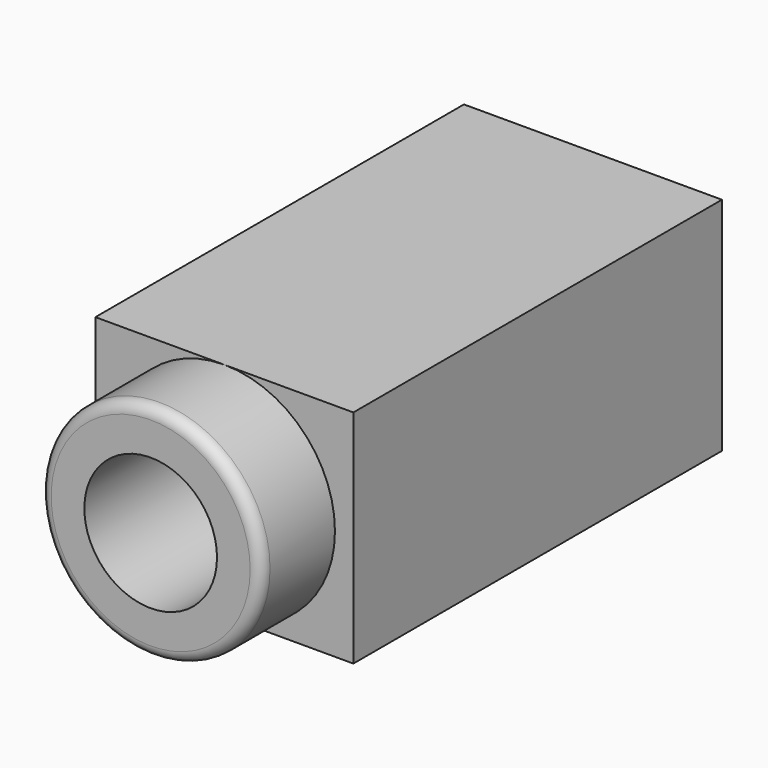
from build123d import *

# Parameters (mm, degrees)
CYLINDER002_R     = 1.8
CYLINDER002_DEPTH = 12
CYLINDER001_R     = 3
CYLINDER001_DEPTH = 2.5
BOX054_W          = 7
BOX054_H          = 12.5
BOX054_DEPTH      = 6
FILLET017_R       = 0.3


with BuildPart() as cylinder002:
    # Cylinder002 → Cylinder002 (new body)
    with BuildSketch(Plane(origin=(0, 9.5, 3), x_dir=(1, 0, 0), z_dir=(0, -1, 0))):
        Circle(CYLINDER002_R)
    extrude(amount=CYLINDER002_DEPTH)


with BuildPart() as cylinder001:
    # Cylinder001 → Cylinder001 (new body)
    with BuildSketch(Plane(origin=(0, 0, 3), x_dir=(1, 0, 0), z_dir=(0, -1, 0))):
        Circle(CYLINDER001_R)
    extrude(amount=CYLINDER001_DEPTH)


with BuildPart() as phone_socket_audio_video:
    # Box054 → Box054 (new body)
    with BuildSketch(Plane(origin=(-3.5, 0, 0), x_dir=(1, 0, 0), z_dir=(0, 0, 1))):
        with Locations((3.5, 6.25)):
            Rectangle(BOX054_W, BOX054_H)
    extrude(amount=BOX054_DEPTH)

    # Fusion043: union Cylinder001
    add(cylinder001.part)

    # Cut010: cut Cylinder002
    add(cylinder002.part, mode=Mode.SUBTRACT)

    # Fillet017
    fillet017_edges = [phone_socket_audio_video.edges().sort_by_distance(p)[0] for p in [
        (-3, -2.5, 3),
    ]]
    fillet(fillet017_edges, radius=FILLET017_R)


with BuildPart() as phone_socket_audio_video_1:
    # Fillet017 placement: moved
    add(phone_socket_audio_video.part.moved(Location((54, 0, 1.5))))


solid = phone_socket_audio_video_1.part
